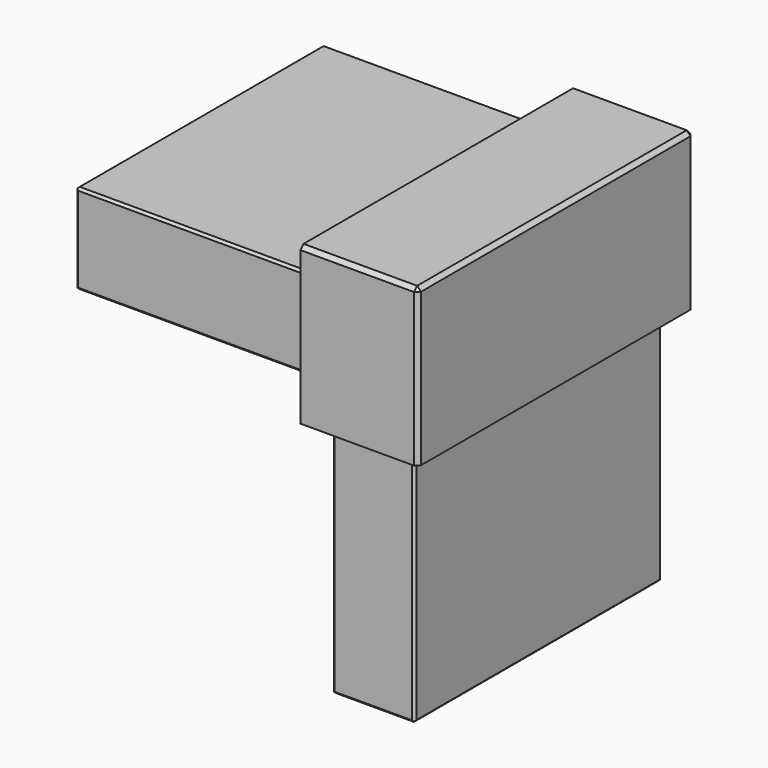
from build123d import *

# Parameters (mm, degrees)
SKETCH014_W     = 44
SKETCH014_H     = 20
PAD004_DEPTH    = 15
SKETCH015_W     = 39.5
SKETCH015_H     = 11.5
PAD005_DEPTH    = 30.5
SKETCH016_W     = 30
SKETCH016_H     = 7
POCKET005_DEPTH = 41.5
SKETCH017_W     = 39.5
SKETCH017_H     = 10.5
PAD006_DEPTH    = 30.5
SKETCH018_W     = 30
SKETCH018_H     = 7
POCKET006_DEPTH = 44
FILLET006_R     = 5
FILLET007_R     = 3
CHAMFER032_SIZE = 0.3
CHAMFER033_SIZE = 0.5
CHAMFER034_SIZE = 0.3


with BuildPart() as part:
    # Sketch014 → Pad004 (new body)
    with BuildSketch(Plane.YZ):
        Rectangle(SKETCH014_W, SKETCH014_H)
    extrude(amount=PAD004_DEPTH)

    # Sketch015 (on DatumPlane) → Pad005 (join)
    with BuildSketch(Plane(origin=(0, 0, 0), x_dir=(0, 1, 0), z_dir=(-1, 0, 0))):
        Rectangle(SKETCH015_W, SKETCH015_H)
    extrude(amount=PAD005_DEPTH)

    # Sketch016 (on Face11 of Pad005) → Pocket005 (cut)
    with BuildSketch(Plane(origin=(-30.5, 0, 0), x_dir=(0, 1, 0), z_dir=(-1, 0, 0))):
        Rectangle(SKETCH016_W, SKETCH016_H)
    extrude(amount=-POCKET005_DEPTH, mode=Mode.SUBTRACT)

    # Sketch017 (on DatumPlane) → Pad006 (join)
    with BuildSketch(Plane.YX.offset(10)):
        with Locations((0, 7.5)):
            Rectangle(SKETCH017_W, SKETCH017_H)
    extrude(amount=PAD006_DEPTH)

    # Sketch018 (on Face16 of Pad006) → Pocket006 (cut)
    with BuildSketch(Plane.YX.offset(40.5)):
        with Locations((0, 7.5)):
            Rectangle(SKETCH018_W, SKETCH018_H)
    extrude(amount=-POCKET006_DEPTH, mode=Mode.SUBTRACT)

    # Fillet006
    fillet006_edges = [part.edges().sort_by_distance(p)[0] for p in [
        (11, 0, 3.5),
    ]]
    fillet(fillet006_edges, radius=FILLET006_R)

    # Fillet007
    fillet007_edges = [part.edges().sort_by_distance(p)[0] for p in [
        (4, 0, -3.5),
    ]]
    fillet(fillet007_edges, radius=FILLET007_R)

    # Chamfer032
    chamfer032_edges = [part.edges().sort_by_distance(p)[0] for p in [
        (-30.5, 0, -5.75),
        (-30.5, -19.75, 0),
        (-30.5, 19.75, 0),
        (-30.5, 0, 5.75),
        (-30.5, 0, -3.5),
        (-30.5, 15, 0),
        (-30.5, 0, 3.5),
        (-30.5, -15, 0),
        (12.75, 0, -40.5),
        (7.5, -19.75, -40.5),
        (7.5, 19.75, -40.5),
        (2.25, 0, -40.5),
        (11, 0, -40.5),
        (7.5, 15, -40.5),
        (4, 0, -40.5),
        (7.5, -15, -40.5),
    ]]
    chamfer(chamfer032_edges, length=CHAMFER032_SIZE)

    # Chamfer033
    chamfer033_edges = [part.edges().sort_by_distance(p)[0] for p in [
        (7.5, -22, 10),
        (15, -22, 0),
        (7.5, 22, 10),
        (15, 22, 0),
        (15, 0, 10),
    ]]
    chamfer(chamfer033_edges, length=CHAMFER033_SIZE)

    # Chamfer034
    chamfer034_edges = [part.edges().sort_by_distance(p)[0] for p in [
        (-15.1, -19.75, 5.75),
        (-15.1, -19.75, -5.75),
        (-15.1, 19.75, 5.75),
        (-15.1, 19.75, -5.75),
        (2.25, 19.75, -25.1),
        (2.25, -19.75, -25.1),
        (12.75, 19.75, -25.1),
        (12.75, -19.75, -25.1),
    ]]
    chamfer(chamfer034_edges, length=CHAMFER034_SIZE)


with BuildPart() as part_1:
    # Body002 placement: moved
    add(part.part.moved(Location((99, -22, 4))))


solid = part_1.part
